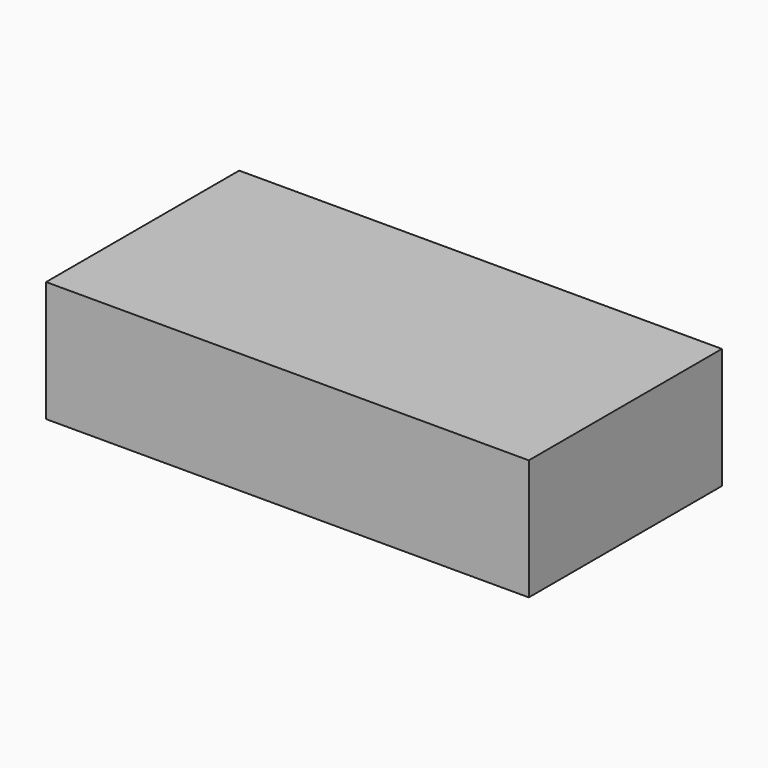
from build123d import *

# Parameters (mm, degrees)
F0_W     = 160
F0_H     = 80
F1_DEPTH = 40
F2_W     = 144
F2_H     = 64
F3_DEPTH = 30


with BuildPart() as f1:
    # F0 (on Top) → F1 (new body)
    with BuildSketch(Plane.XY):
        with Locations((-11.728724, -20.738534)):
            Rectangle(F0_W, F0_H)
    extrude(amount=F1_DEPTH)

    # F2 (on Top) → F3 (cut)
    with BuildSketch(Plane.XY):
        with Locations((-11.728724, -20.738534)):
            Rectangle(F2_W, F2_H)
    extrude(amount=F3_DEPTH, mode=Mode.SUBTRACT)


solid = f1.part
